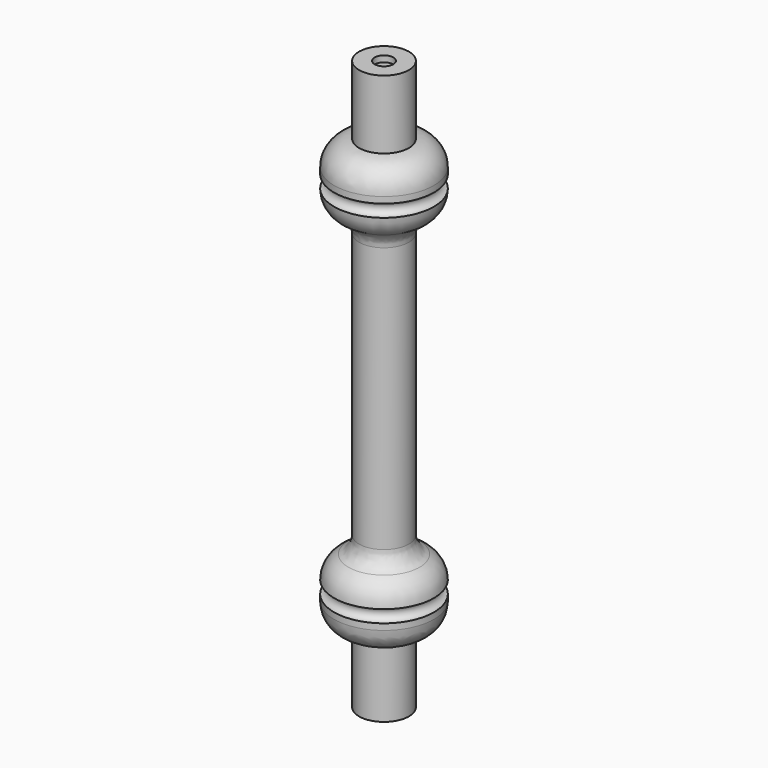
from build123d import *

# Parameters (mm, degrees)
FILLET_R     = 3
SKETCH001_R  = 1.5
POCKET_DEPTH = 1


with BuildPart() as part:
    # Sketch → Revolution (revolve)
    with BuildSketch(Plane.YZ):
        with BuildLine():
            Line((0, 0), (-4, 0))
            Line((-4, 0), (-4, 11))
            ThreePointArc((-8, 15), (-6.828427, 12.171573), (-4, 11))
            Line((-8, 16), (-8, 15))
            ThreePointArc((-8, 16), (-7, 17), (-8, 18))
            ThreePointArc((-4, 22), (-6.828427, 20.828427), (-8, 18))
            Line((-4, 22), (-4, 69.25))
            ThreePointArc((-8, 73.25), (-6.828427, 70.421573), (-4, 69.25))
            ThreePointArc((-8, 73.25), (-7, 74.25), (-8, 75.25))
            Line((-8, 75.25), (-8, 76.25))
            ThreePointArc((-4, 80.25), (-6.828427, 79.078427), (-8, 76.25))
            Line((-4, 91.25), (-4, 80.25))
            Line((0, 91.25), (-4, 91.25))
            Line((0, 0), (0, 91.25))
        make_face()
    revolve(axis=Axis((0, 0, 0), (0, 0, 1)))

    # Fillet
    fillet_edges = [part.edges().sort_by_distance(p)[0] for p in [
        (0, 4, 22),
        (0, 4, 69.25),
        (0, -4, 45.625),
    ]]
    fillet(fillet_edges, radius=FILLET_R)

    # Sketch001 (on Face15 of Fillet) → Pocket (cut)
    with BuildSketch(Plane(origin=(0, 0, 91.25), x_dir=(0, -1, 0), z_dir=(0, 0, 1))):
        Circle(SKETCH001_R)
    extrude(amount=-POCKET_DEPTH, mode=Mode.SUBTRACT)


solid = part.part
